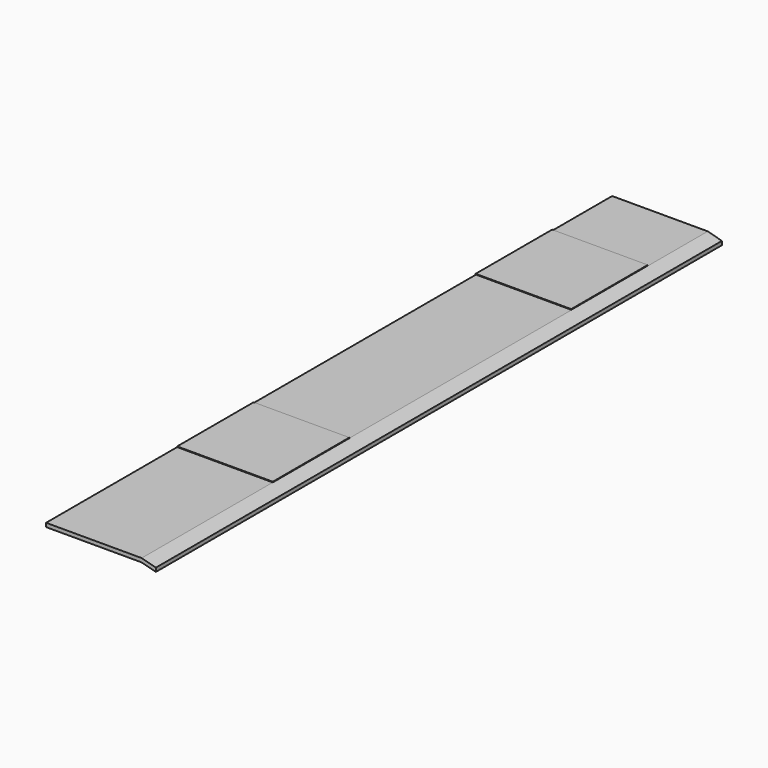
from build123d import *

# Parameters (mm, degrees)
F1_DEPTH = 1110
F2_W     = 150
F2_H     = 150
F3_DEPTH = 1


with BuildPart() as f1:
    # F0 (on Front) → F1 (new body)
    with BuildSketch(Plane.XZ):
        Polygon((150, 0), (0, 0), (0, -6), (150, -6), (172.216294, -11.952838), (172.216294, -5.952838), align=None)
    extrude(amount=F1_DEPTH)

    # F2 (on face) → F3 (join)
    with BuildSketch(Plane.XY):
        with Locations((74.428144, -192.023769)):
            Rectangle(F2_W, F2_H)
        with Locations((75, -777.969706)):
            Rectangle(F2_W, F2_H)
    extrude(amount=F3_DEPTH)


solid = f1.part
